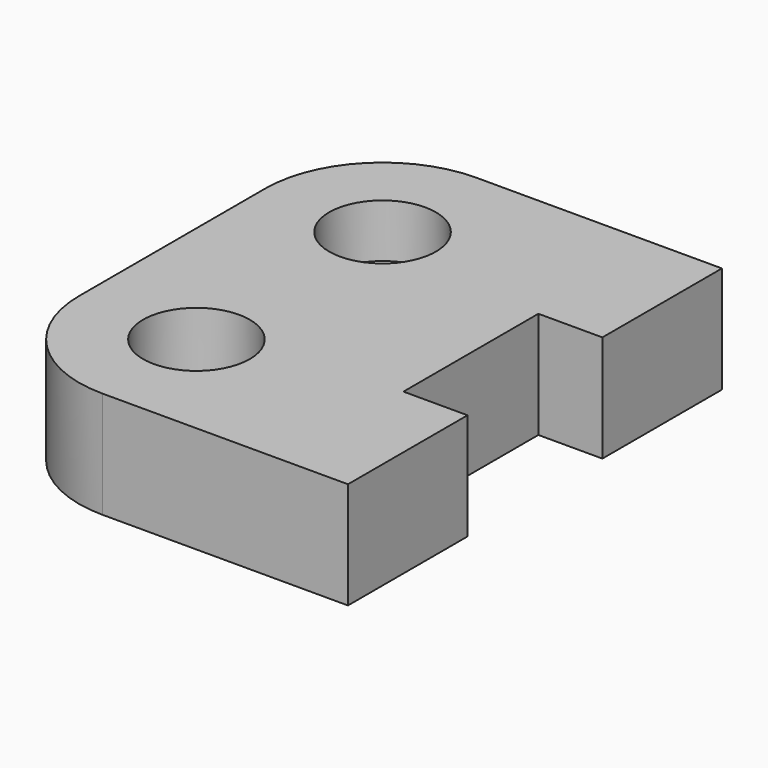
from build123d import *

# Parameters (mm, degrees)
F0_R     = 2.5
F0_W     = 3
F0_H     = 7
F1_DEPTH = 5
F2_DEPTH = 2.5


with BuildPart() as f1:
    # F0 (on Top) → F1 (new body)
    with BuildSketch(Plane.XY):
        with BuildLine():
            Line((-5.5, 4.45), (-5.5, 0))
            ThreePointArc((-5.5, 0), (-3.889087, -3.889087), (0, -5.5))
            ThreePointArc((0, -5.5), (3.889087, -3.889087), (5.5, 0))
            Line((5.5, 0), (5.5, 4.45))
            Line((5.5, 4.45), (-5.5, 4.45))
        make_face()
        Circle(F0_R, mode=Mode.SUBTRACT)
        with BuildLine():
            Line((-5.5, 5.45), (-5.5, 4.45))
            Line((-5.5, 4.45), (5.5, 4.45))
            Line((5.5, 4.45), (5.5, 10.9))
            ThreePointArc((5.5, 10.9), (3.889087, 14.789087), (0, 16.4))
            ThreePointArc((0, 16.4), (-3.889087, 14.789087), (-5.5, 10.9))
            Line((-5.5, 10.9), (-5.5, 5.45))
        make_face()
        with BuildLine():
            ThreePointArc((2.5, 10.9), (0, 8.4), (-2.5, 10.9))
            ThreePointArc((-2.5, 10.9), (0, 13.4), (2.5, 10.9))
        make_face(mode=Mode.SUBTRACT)
        with BuildLine():
            ThreePointArc((0, 16.4), (3.889087, 14.789087), (5.5, 10.9))
            Line((5.5, 10.9), (5.5, 16.4))
            Line((5.5, 16.4), (0, 16.4))
        make_face()
        with BuildLine():
            ThreePointArc((5.5, 0), (3.889087, -3.889087), (0, -5.5))
            Line((0, -5.5), (8.5, -5.5))
            Line((8.5, -5.5), (8.5, 1.5))
            Line((8.5, 1.5), (8.5, 9.4))
            Line((8.5, 9.4), (8.5, 16.4))
            Line((8.5, 16.4), (5.5, 16.4))
            Line((5.5, 16.4), (5.5, 10.9))
            Line((5.5, 10.9), (5.5, 4.45))
            Line((5.5, 4.45), (5.5, 0))
        make_face()
        with BuildLine():
            ThreePointArc((0, 16.4), (3.889087, 14.789087), (5.5, 10.9))
            Line((5.5, 10.9), (5.5, 16.4))
            Line((5.5, 16.4), (0, 16.4))
        make_face()
        with Locations((10, -2)):
            Rectangle(F0_W, F0_H)
        with Locations((10, 12.9)):
            Rectangle(F0_W, F0_H)
    extrude(amount=F1_DEPTH)

    # F0 (on Top) → F2 (cut)
    with BuildSketch(Plane.XY):
        with BuildLine():
            Line((-5.5, 5.45), (-5.5, 4.45))
            Line((-5.5, 4.45), (5.5, 4.45))
            Line((5.5, 4.45), (5.5, 10.9))
            ThreePointArc((5.5, 10.9), (3.889087, 14.789087), (0, 16.4))
            ThreePointArc((0, 16.4), (-3.889087, 14.789087), (-5.5, 10.9))
            Line((-5.5, 10.9), (-5.5, 5.45))
        make_face()
        with BuildLine():
            ThreePointArc((2.5, 10.9), (0, 8.4), (-2.5, 10.9))
            ThreePointArc((-2.5, 10.9), (0, 13.4), (2.5, 10.9))
        make_face(mode=Mode.SUBTRACT)
        with BuildLine():
            ThreePointArc((0, 16.4), (3.889087, 14.789087), (5.5, 10.9))
            Line((5.5, 10.9), (5.5, 16.4))
            Line((5.5, 16.4), (0, 16.4))
        make_face()
        with BuildLine():
            ThreePointArc((0, 16.4), (3.889087, 14.789087), (5.5, 10.9))
            Line((5.5, 10.9), (5.5, 16.4))
            Line((5.5, 16.4), (0, 16.4))
        make_face()
    extrude(amount=F2_DEPTH, mode=Mode.SUBTRACT)


solid = f1.part
